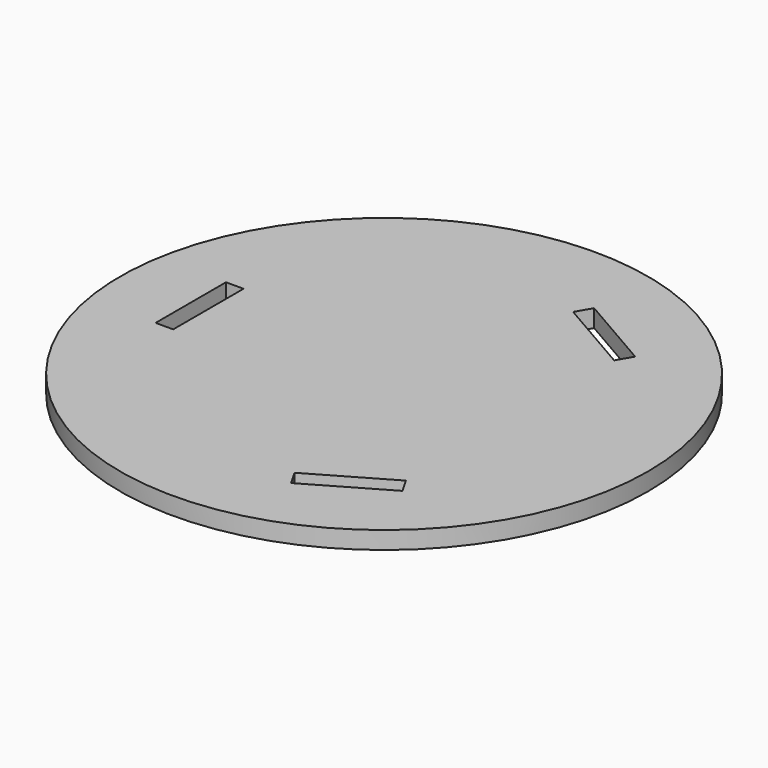
from build123d import *

# Parameters (mm, degrees)
F0_R      = 30
F1_DEPTH  = 2
F2_W      = 2
F2_H      = 10
F3_DEPTH  = 25
F4_COUNT  = 3
F3_FACE_W = 2
F3_FACE_H = 10
F5_DEPTH  = 25
F6_DEPTH  = 25


with BuildPart() as f1:
    # F0 (on Top) → F1 (new body)
    with BuildSketch(Plane.XY):
        Circle(F0_R)
    extrude(amount=F1_DEPTH)

    # F4_face (on face) + F3_face (on face) → F5 (cut)
    with BuildSketch(Plane(origin=(10.4850735515, -18.1606801124, 2), x_dir=(1, 0, 0), z_dir=(0, 0, -1))):
        Polygon((-3.8301270189, 3.3660254038), (-4.8301270189, 1.6339745962), (3.8301270189, -3.3660254038), (4.8301270189, -1.6339745962), align=None)
        Polygon((4.8301270189, -34.6873856285), (3.8301270189, -32.9553348209), (-4.8301270189, -37.9553348209), (-3.8301270189, -39.6873856285), align=None)
    with BuildSketch(Plane(origin=(-20.9701471031, 0, 2), x_dir=(1, 0, 0), z_dir=(0, 0, -1))):
        Rectangle(F3_FACE_W, F3_FACE_H)
    extrude(amount=F5_DEPTH, mode=Mode.SUBTRACT)


with BuildPart() as f3:
    # F2 (on face) → F3 (new body)
    with BuildSketch(Plane.XY.offset(2)):
        with Locations((-20.9701471031, 0)):
            Rectangle(F2_W, F2_H)
    extrude(amount=F3_DEPTH)


with BuildPart() as f4_1:
    # F4: instance of F3
    add(f3.part.rotate(Axis((0, 0, 0), (0, 0, -1)), 1 * 360 / F4_COUNT))


with BuildPart() as f4_2:
    # F4: instance of F3
    add(f3.part.rotate(Axis((0, 0, 0), (0, 0, -1)), 2 * 360 / F4_COUNT))


with BuildPart() as f6_tool:
    # F3_face (on face) + F4_face (on face) → F6 (new body)
    with BuildSketch(Plane(origin=(-20.9701471031, 0, 2), x_dir=(1, 0, 0), z_dir=(0, 0, -1))):
        Rectangle(F3_FACE_W, F3_FACE_H)
    with BuildSketch(Plane(origin=(10.4850735515, -18.1606801124, 2), x_dir=(1, 0, 0), z_dir=(0, 0, -1))):
        Polygon((4.8301270189, -34.6873856285), (3.8301270189, -32.9553348209), (-4.8301270189, -37.9553348209), (-3.8301270189, -39.6873856285), align=None)
        Polygon((-3.8301270189, 3.3660254038), (-4.8301270189, 1.6339745962), (3.8301270189, -3.3660254038), (4.8301270189, -1.6339745962), align=None)
    extrude(amount=-F6_DEPTH)


with BuildPart() as f3_1:
    add(f3.part)

    # F6: cut by f6_tool
    add(f6_tool.part, mode=Mode.SUBTRACT)


with BuildPart() as f4_1_1:
    add(f4_1.part)

    # F6: cut by f6_tool
    add(f6_tool.part, mode=Mode.SUBTRACT)


with BuildPart() as f4_2_1:
    add(f4_2.part)

    # F6: cut by f6_tool
    add(f6_tool.part, mode=Mode.SUBTRACT)


solid = f1.part
